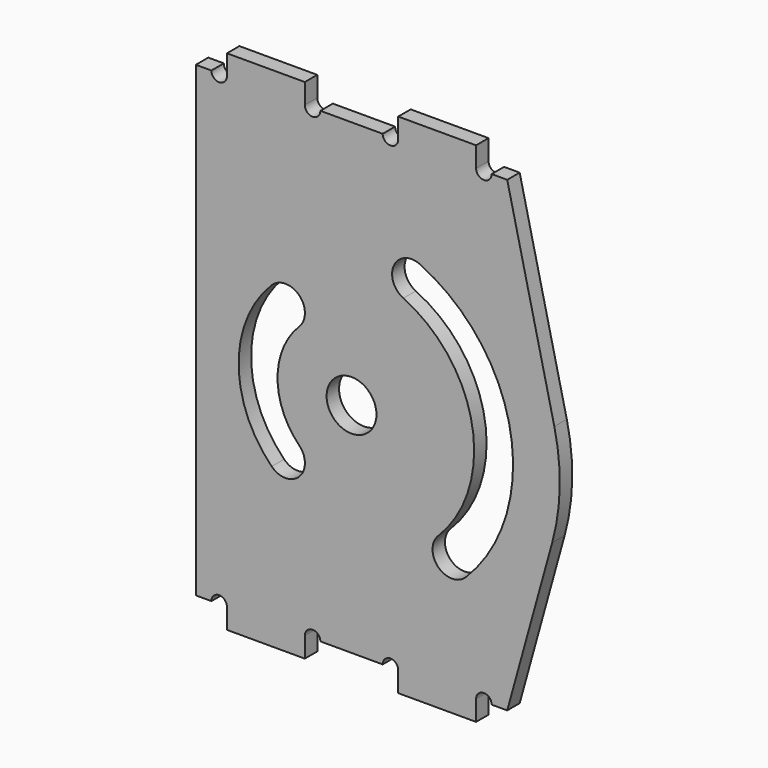
from build123d import *

# Parameters (mm, degrees)
F1_DEPTH = 1
F2_R     = 1.6
F3_DEPTH = 1.001
F4_R     = 0.5
F5_DEPTH = 1.001
F7_DEPTH = 1.001


with BuildPart() as f1:
    # F0 (on Front) → F1 (new body)
    with BuildSketch(Plane.XZ):
        Polygon((2, 30), (0, 30), (0, 0), (2, 0), (2, -1.3), (7, -1.3), (7, 0), (13, 0), (13, -1.3), (18, -1.3), (18, 0), (25, 0), (25, 30), (18, 30), (18, 31.3), (13, 31.3), (13, 30), (7, 30), (7, 31.3), (2, 31.3), align=None)
    extrude(amount=F1_DEPTH)

    # F2 (on face) → F3 (cut, through all)
    with BuildSketch(Plane.XZ.offset(1)):
        with Locations((10, 14)):
            Circle(F2_R)
        with BuildLine():
            ThreePointArc((13.328119, 21.137174), (17.755361, 15.367479), (15.568466, 8.431534))
            ThreePointArc((15.568466, 8.431534), (15.568466, 6.663767), (17.336233, 6.663767))
            ThreePointArc((17.336233, 6.663767), (20.21738, 15.8016), (14.384664, 23.402943))
            ThreePointArc((14.384664, 23.402943), (12.723507, 22.798331), (13.328119, 21.137174))
        make_face()
        with BuildLine():
            ThreePointArc((6.641243, 10.641243), (5.25, 14), (6.641243, 17.358757))
            ThreePointArc((6.641243, 17.358757), (6.641243, 19.126524), (4.873476, 19.126524))
            ThreePointArc((4.873476, 19.126524), (2.75, 14), (4.873476, 8.873476))
            ThreePointArc((4.873476, 8.873476), (6.641243, 8.873476), (6.641243, 10.641243))
        make_face()
    extrude(amount=-F3_DEPTH, mode=Mode.SUBTRACT)

    # F4 (on face) → F5 (cut, through all)
    with BuildSketch(Plane.XZ.offset(1)):
        with Locations((1.5, 30)):
            Circle(F4_R)
        with Locations((7.5, 30)):
            Circle(F4_R)
        with Locations((12.5, 30)):
            Circle(F4_R)
        with Locations((18.5, 30)):
            Circle(F4_R)
        with Locations((1.5, 0)):
            Circle(F4_R)
        with Locations((7.5, 0)):
            Circle(F4_R)
        with Locations((12.5, 0)):
            Circle(F4_R)
        with Locations((18.5, 0)):
            Circle(F4_R)
    extrude(amount=-F5_DEPTH, mode=Mode.SUBTRACT)

    # F6 (on face) → F7 (cut, through all)
    with BuildSketch(Plane.XZ.offset(1)):
        with BuildLine():
            Line((20, 0), (25, 0))
            Line((25, 0), (25, 30))
            Line((25, 30), (20, 30))
            Line((20, 30), (23.024917, 17.040091))
            ThreePointArc((23.024917, 17.040091), (23.372192, 13.725957), (22.88943, 10.428834))
            Line((22.88943, 10.428834), (20, 0))
        make_face()
    extrude(amount=-F7_DEPTH, mode=Mode.SUBTRACT)


solid = f1.part
